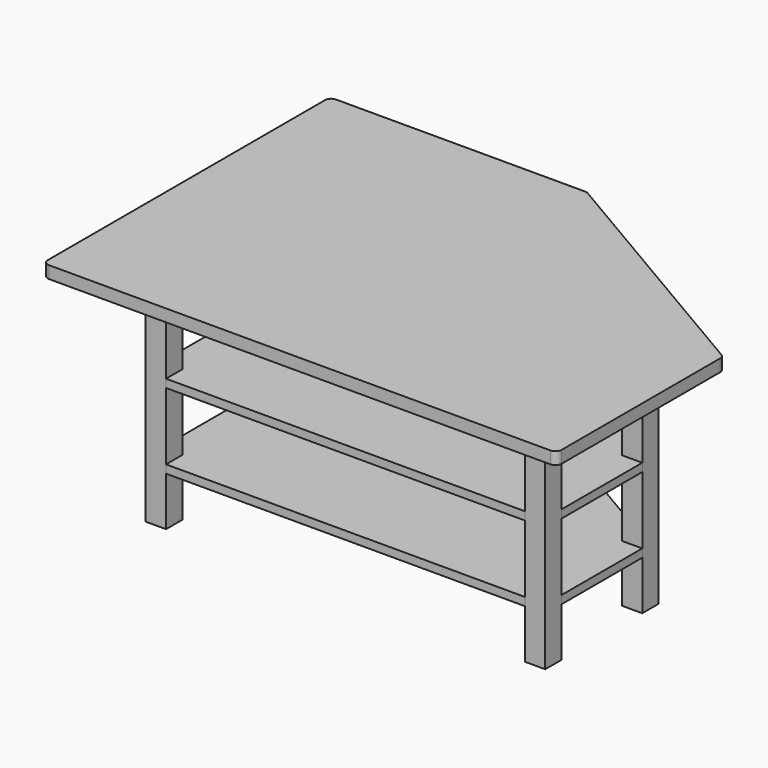
from build123d import *

# Parameters (mm, degrees)
F2_START      = -4.4552753679
F0_W          = 50
F0_H          = 50
F2_DEPTH      = 540
F3_DEPTH      = 4.4552753679
F3_DEPTH_BACK = 25.5447246321
F4_START      = -404.4552753679
F4_DEPTH      = 20
F5_START      = -219.4552753679
F5_DEPTH      = 20


with BuildPart() as f2:
    # F0 (on Top) → F2 (new body)
    with BuildSketch(Plane.XY.offset(F2_START)):
        with Locations((64.2817475274, -546.1079187691)):
            Rectangle(F0_W, F0_H)
    extrude(amount=-F2_DEPTH)


with BuildPart() as f2b:
    # F0 (on Top) → F2, piece 2 (new body)
    with BuildSketch(Plane.XY.offset(F2_START)):
        with Locations((994.2817475274, -546.1079187691)):
            Rectangle(F0_W, F0_H)
    extrude(amount=-F2_DEPTH)


with BuildPart() as f2c:
    # F0 (on Top) → F2, piece 3 (new body)
    with BuildSketch(Plane.XY.offset(F2_START)):
        with Locations((994.2817475274, -248.6476013088)):
            Rectangle(F0_W, F0_H)
    extrude(amount=-F2_DEPTH)


with BuildPart() as f2d:
    # F0 (on Top) → F2, piece 4 (new body)
    with BuildSketch(Plane.XY.offset(F2_START)):
        with Locations((514.2817475274, 3.8920812309)):
            Rectangle(F0_W, F0_H)
    extrude(amount=-F2_DEPTH)


with BuildPart() as f2e:
    # F0 (on Top) → F2, piece 5 (new body)
    with BuildSketch(Plane.XY.offset(F2_START)):
        with Locations((64.2817475274, 3.8920812309)):
            Rectangle(F0_W, F0_H)
    extrude(amount=-F2_DEPTH)


with BuildPart() as f3:
    # F0 (on Top) → F3 (new body, two sides)
    with BuildSketch(Plane.XY) as f3_sk:
        with BuildLine():
            Line((525.2027132718, 168.8920812309), (-85.7182524726, 168.8920812309))
            ThreePointArc((-85.7182524726, 168.8920812309), (-96.3248541904, 164.4986829487), (-100.7182524726, 153.8920812309))
            Line((-100.7182524726, 153.8920812309), (-100.7182524726, -696.1079187691))
            ThreePointArc((-100.7182524726, -696.1079187691), (-96.3248541904, -706.7145204869), (-85.7182524726, -711.1079187691))
            Line((-85.7182524726, -711.1079187691), (1144.2817475274, -711.1079187691))
            ThreePointArc((1144.2817475274, -711.1079187691), (1154.8883492452, -706.7145204869), (1159.2817475274, -696.1079187691))
            Line((1159.2817475274, -696.1079187691), (1159.2817475274, -209.6940182526))
            ThreePointArc((1159.2817475274, -209.6940182526), (1157.2999063312, -202.2423378139), (1151.8780753461, -196.7597303451))
            Line((1151.8780753461, -196.7597303451), (532.7990410905, 166.8263691383))
            ThreePointArc((532.7990410905, 166.8263691383), (529.1388078711, 168.366443369), (525.2027132718, 168.8920812309))
        make_face()
        Polygon((39.2817475274, -21.1079187691), (39.2817475274, 28.8920812309), (89.2817475274, 28.8920812309), (489.2817475274, 28.8920812309), (539.2817475274, 28.8920812309), (969.2817475274, -223.6476013088), (1019.2817475274, -223.6476013088), (1019.2817475274, -273.6476013088), (1019.2817475274, -521.1079187691), (1019.2817475274, -571.1079187691), (969.2817475274, -571.1079187691), (89.2817475274, -571.1079187691), (39.2817475274, -571.1079187691), (39.2817475274, -521.1079187691), align=None, mode=Mode.SUBTRACT)
        Polygon((489.2817475274, 28.8920812309), (89.2817475274, 28.8920812309), (89.2817475274, -21.1079187691), (39.2817475274, -21.1079187691), (39.2817475274, -521.1079187691), (89.2817475274, -521.1079187691), (89.2817475274, -571.1079187691), (969.2817475274, -571.1079187691), (969.2817475274, -521.1079187691), (1019.2817475274, -521.1079187691), (1019.2817475274, -273.6476013088), (969.2817475274, -273.6476013088), (969.2817475274, -223.6476013088), (539.2817475274, 28.8920812309), (539.2817475274, -21.1079187691), (489.2817475274, -21.1079187691), align=None)
        Polygon((489.2817475274, 28.8920812309), (89.2817475274, 28.8920812309), (89.2817475274, -21.1079187691), (39.2817475274, -21.1079187691), (39.2817475274, -521.1079187691), (89.2817475274, -521.1079187691), (89.2817475274, -571.1079187691), (969.2817475274, -571.1079187691), (969.2817475274, -521.1079187691), (1019.2817475274, -521.1079187691), (1019.2817475274, -273.6476013088), (969.2817475274, -273.6476013088), (969.2817475274, -223.6476013088), (539.2817475274, 28.8920812309), (539.2817475274, -21.1079187691), (489.2817475274, -21.1079187691), align=None)
        Polygon((489.2817475274, 28.8920812309), (89.2817475274, 28.8920812309), (89.2817475274, -21.1079187691), (39.2817475274, -21.1079187691), (39.2817475274, -521.1079187691), (89.2817475274, -521.1079187691), (89.2817475274, -571.1079187691), (969.2817475274, -571.1079187691), (969.2817475274, -521.1079187691), (1019.2817475274, -521.1079187691), (1019.2817475274, -273.6476013088), (969.2817475274, -273.6476013088), (969.2817475274, -223.6476013088), (539.2817475274, 28.8920812309), (539.2817475274, -21.1079187691), (489.2817475274, -21.1079187691), align=None)
        with Locations((64.2817475274, -546.1079187691)):
            Rectangle(F0_W, F0_H)
        with Locations((994.2817475274, -546.1079187691)):
            Rectangle(F0_W, F0_H)
        with Locations((994.2817475274, -248.6476013088)):
            Rectangle(F0_W, F0_H)
        with Locations((514.2817475274, 3.8920812309)):
            Rectangle(F0_W, F0_H)
        with Locations((64.2817475274, 3.8920812309)):
            Rectangle(F0_W, F0_H)
    extrude(amount=-F3_DEPTH)
    extrude(f3_sk.sketch, amount=F3_DEPTH_BACK)


with BuildPart() as f4:
    # F0 (on Top) → F4 (new body)
    with BuildSketch(Plane.XY.offset(F4_START)):
        Polygon((489.2817475274, 28.8920812309), (89.2817475274, 28.8920812309), (89.2817475274, -21.1079187691), (39.2817475274, -21.1079187691), (39.2817475274, -521.1079187691), (89.2817475274, -521.1079187691), (89.2817475274, -571.1079187691), (969.2817475274, -571.1079187691), (969.2817475274, -521.1079187691), (1019.2817475274, -521.1079187691), (1019.2817475274, -273.6476013088), (969.2817475274, -273.6476013088), (969.2817475274, -223.6476013088), (539.2817475274, 28.8920812309), (539.2817475274, -21.1079187691), (489.2817475274, -21.1079187691), align=None)
        Polygon((489.2817475274, 28.8920812309), (89.2817475274, 28.8920812309), (89.2817475274, -21.1079187691), (39.2817475274, -21.1079187691), (39.2817475274, -521.1079187691), (89.2817475274, -521.1079187691), (89.2817475274, -571.1079187691), (969.2817475274, -571.1079187691), (969.2817475274, -521.1079187691), (1019.2817475274, -521.1079187691), (1019.2817475274, -273.6476013088), (969.2817475274, -273.6476013088), (969.2817475274, -223.6476013088), (539.2817475274, 28.8920812309), (539.2817475274, -21.1079187691), (489.2817475274, -21.1079187691), align=None)
        Polygon((489.2817475274, 28.8920812309), (89.2817475274, 28.8920812309), (89.2817475274, -21.1079187691), (39.2817475274, -21.1079187691), (39.2817475274, -521.1079187691), (89.2817475274, -521.1079187691), (89.2817475274, -571.1079187691), (969.2817475274, -571.1079187691), (969.2817475274, -521.1079187691), (1019.2817475274, -521.1079187691), (1019.2817475274, -273.6476013088), (969.2817475274, -273.6476013088), (969.2817475274, -223.6476013088), (539.2817475274, 28.8920812309), (539.2817475274, -21.1079187691), (489.2817475274, -21.1079187691), align=None)
    extrude(amount=-F4_DEPTH)


with BuildPart() as f5:
    # F0 (on Top) → F5 (new body)
    with BuildSketch(Plane.XY.offset(F5_START)):
        Polygon((489.2817475274, 28.8920812309), (89.2817475274, 28.8920812309), (89.2817475274, -21.1079187691), (39.2817475274, -21.1079187691), (39.2817475274, -521.1079187691), (89.2817475274, -521.1079187691), (89.2817475274, -571.1079187691), (969.2817475274, -571.1079187691), (969.2817475274, -521.1079187691), (1019.2817475274, -521.1079187691), (1019.2817475274, -273.6476013088), (969.2817475274, -273.6476013088), (969.2817475274, -223.6476013088), (539.2817475274, 28.8920812309), (539.2817475274, -21.1079187691), (489.2817475274, -21.1079187691), align=None)
        Polygon((489.2817475274, 28.8920812309), (89.2817475274, 28.8920812309), (89.2817475274, -21.1079187691), (39.2817475274, -21.1079187691), (39.2817475274, -521.1079187691), (89.2817475274, -521.1079187691), (89.2817475274, -571.1079187691), (969.2817475274, -571.1079187691), (969.2817475274, -521.1079187691), (1019.2817475274, -521.1079187691), (1019.2817475274, -273.6476013088), (969.2817475274, -273.6476013088), (969.2817475274, -223.6476013088), (539.2817475274, 28.8920812309), (539.2817475274, -21.1079187691), (489.2817475274, -21.1079187691), align=None)
        Polygon((489.2817475274, 28.8920812309), (89.2817475274, 28.8920812309), (89.2817475274, -21.1079187691), (39.2817475274, -21.1079187691), (39.2817475274, -521.1079187691), (89.2817475274, -521.1079187691), (89.2817475274, -571.1079187691), (969.2817475274, -571.1079187691), (969.2817475274, -521.1079187691), (1019.2817475274, -521.1079187691), (1019.2817475274, -273.6476013088), (969.2817475274, -273.6476013088), (969.2817475274, -223.6476013088), (539.2817475274, 28.8920812309), (539.2817475274, -21.1079187691), (489.2817475274, -21.1079187691), align=None)
    extrude(amount=-F5_DEPTH)


solid = Compound([f2.part, f2b.part, f2c.part, f2d.part, f2e.part, f3.part, f4.part, f5.part])
